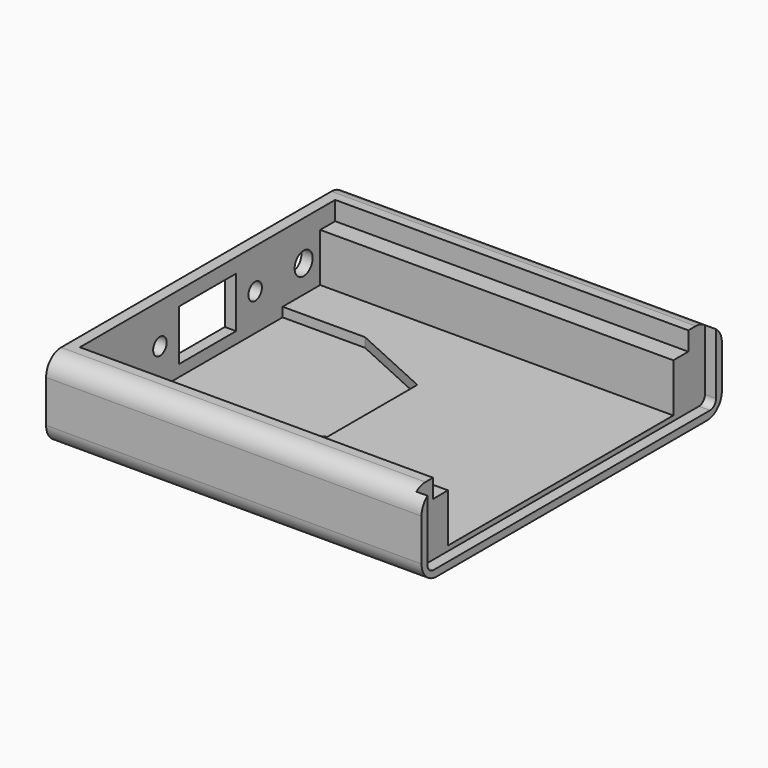
from build123d import *

# Parameters (mm, degrees)
F0_W      = 50.8
F0_H      = 50.8
F1_DEPTH  = 10.78
F2_R      = 2.54
F3_W      = 38.1
F3_H      = 12.7
F4_DEPTH  = 49.276
F5_W      = 9.652
F5_H      = 6.858
F5_R      = 1.524
F5_R_2    = 1.143
F6_DEPTH  = 1.778
F8_DEPTH  = 1.27
F9_W      = 43.18
F9_H      = 2.54
F10_DEPTH = 49.276
F12_DEPTH = 1.5
F13_W     = 2.81
F13_H     = 2.54
F14_DEPTH = 1.5
F15_W     = 2.81
F15_H     = 2.54
F16_DEPTH = 1.5


with BuildPart() as f1:
    # F0 (on Top) → F1 (new body)
    with BuildSketch(Plane.XY):
        Rectangle(F0_W, F0_H)
    extrude(amount=F1_DEPTH)

    # F2
    f2_edges = [f1.edges().sort_by_distance(p)[0] for p in [
        (0, 25.4, 10.78),
        (0, -25.4, 10.78),
        (0, -25.4, 0),
        (0, 25.4, 0),
    ]]
    fillet(f2_edges, radius=F2_R)

    # F3 (on face) → F4 (cut)
    with BuildSketch(Plane.YZ.offset(25.4)):
        with Locations((0, 6.75)):
            Rectangle(F3_W, F3_H)
    extrude(amount=-F4_DEPTH, mode=Mode.SUBTRACT)

    # F5 (on face) → F6 (cut)
    with BuildSketch(Plane(origin=(-25.4, 0, 0), x_dir=(0, -1, 0), z_dir=(-1, 0, 0))):
        with Locations((0, 5.39)):
            Rectangle(F5_W, F5_H)
        with Locations((-16.256, 5.39)):
            Circle(F5_R)
        with Locations((-8.0518, 5.39)):
            Circle(F5_R_2)
        with Locations((8.0518, 5.39)):
            Circle(F5_R_2)
    extrude(amount=-F6_DEPTH, mode=Mode.SUBTRACT)

    # F7 (on face) → F8 (join)
    with BuildSketch(Plane.XY.offset(0.4)):
        Polygon((1.5875, 19.05), (-1.5875, 19.05), (-23.876, 19.05), (-23.876, 15.875), (-23.876, 12.7), (-12.73175, 12.7), (-1.5875, 7.62), (-1.5875, -7.62), (-12.73175, -12.7), (-23.876, -12.7), (-23.876, -15.875), (-23.876, -19.05), (-1.5875, -19.05), (1.5875, -19.05), (7.9375, -19.05), (11.1125, -19.05), (25.4, -19.05), (25.4, -12.7), (25.4, 19.05), (11.1125, 19.05), (7.9375, 19.05), align=None)
    extrude(amount=F8_DEPTH)

    # F9 (on face) → F10 (cut)
    with BuildSketch(Plane.YZ.offset(25.4)):
        with Locations((0, 9.51)):
            Rectangle(F9_W, F9_H)
    extrude(amount=-F10_DEPTH, mode=Mode.SUBTRACT)

    # F11 (on face) → F12 (cut)
    with BuildSketch(Plane.YZ.offset(25.4)):
        with BuildLine():
            ThreePointArc((-24.4, 2), (-24.107107, 1.292893), (-23.4, 1))
            Line((-23.4, 1), (23.4, 1))
            ThreePointArc((23.4, 1), (24.107107, 1.292893), (24.4, 2))
            Line((24.4, 2), (24.4, 8.78))
            ThreePointArc((24.4, 8.78), (24.107107, 9.487107), (23.4, 9.78))
            Line((23.4, 9.78), (-23.4, 9.78))
            ThreePointArc((-23.4, 9.78), (-24.107107, 9.487107), (-24.4, 8.78))
            Line((-24.4, 8.78), (-24.4, 2))
        make_face()
    extrude(amount=-F12_DEPTH, mode=Mode.SUBTRACT)

    # F13 (on face) → F14 (cut)
    with BuildSketch(Plane.YZ.offset(25.4)):
        with Locations((22.995, 9.51)):
            Rectangle(F13_W, F13_H)
    extrude(amount=-F14_DEPTH, mode=Mode.SUBTRACT)

    # F15 (on face) → F16 (cut)
    with BuildSketch(Plane.YZ.offset(25.4)):
        with Locations((-22.995, 9.51)):
            Rectangle(F15_W, F15_H)
    extrude(amount=-F16_DEPTH, mode=Mode.SUBTRACT)


solid = f1.part
